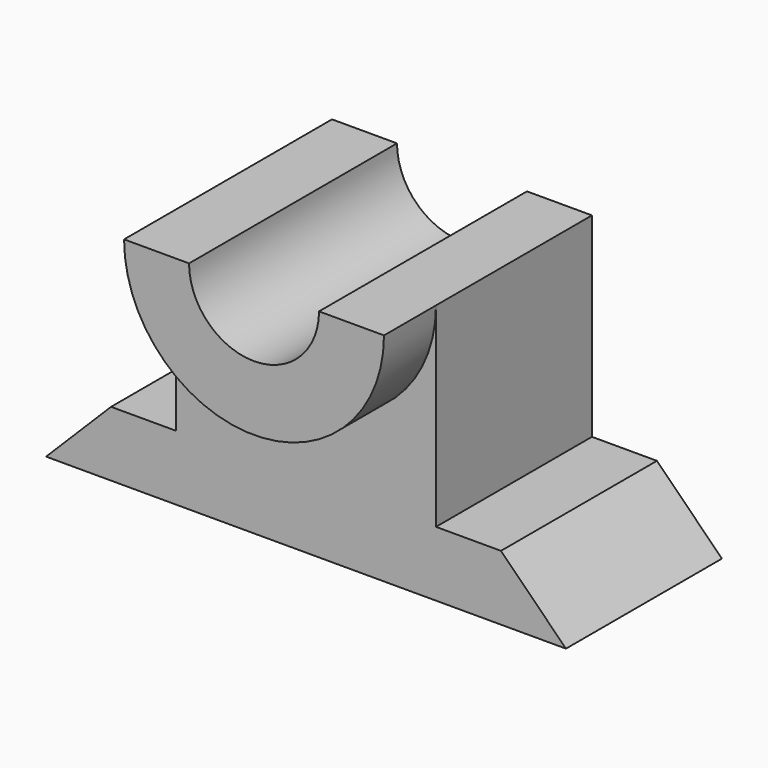
from build123d import *

# Parameters (mm, degrees)
F1_DEPTH = 30
F3_DEPTH = 10
F4_DEPTH = 30


with BuildPart() as f1:
    # F0 (on Front) → F1 (new body)
    with BuildSketch(Plane.XZ):
        Polygon((-30, 10), (-40, 0), (40, 0), (30, 10), (20, 10), (20, 40), (-20, 40), (-20, 10), align=None)
    extrude(amount=F1_DEPTH)

    # F2 (on face) → F3 (join)
    with BuildSketch(Plane.XZ.offset(30)):
        with BuildLine():
            Line((-10, 40), (-20, 40))
            ThreePointArc((-20, 40), (0, 20), (20, 40))
            Line((20, 40), (10, 40))
            ThreePointArc((10, 40), (0, 30), (-10, 40))
        make_face()
    extrude(amount=F3_DEPTH)

    # F4 (cut, through all): a face of the model
    f4_faces = [f1.faces().sort_by_distance(p)[0] for p in [
        (0, -30, 35.7558681842),
    ]]
    extrude(f4_faces, amount=-F4_DEPTH, mode=Mode.SUBTRACT)


solid = f1.part
